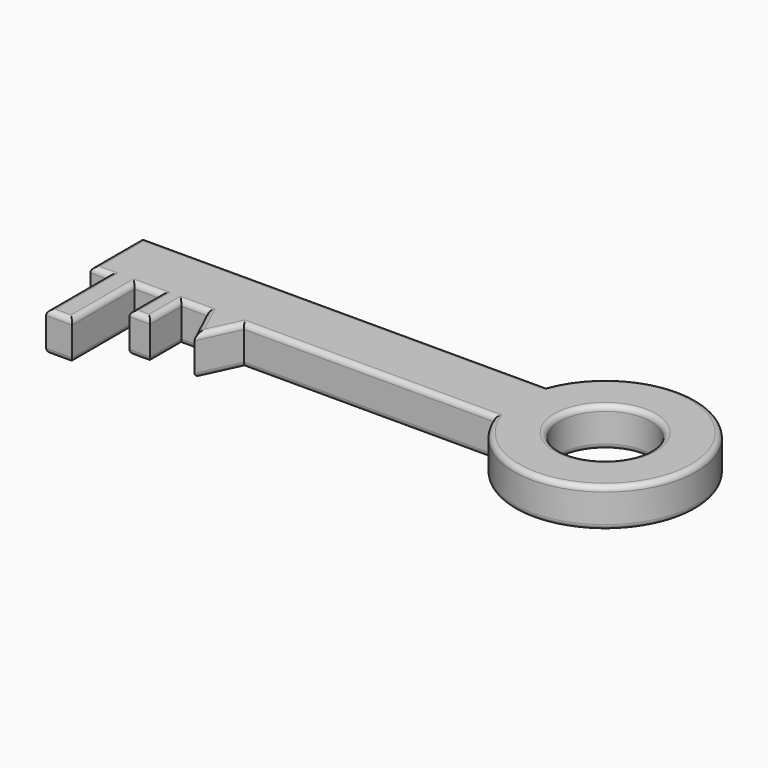
from build123d import *

# Parameters (mm, degrees)
F0_R     = 17.5
F1_DEPTH = 15
F2_R     = 2
F3_R     = 2


with BuildPart() as f1:
    # F0 (on Top) → F1 (new body)
    with BuildSketch(Plane.XY):
        with BuildLine():
            Line((-75.929283, 15), (20.102384, 15))
            ThreePointArc((20.102384, 15), (87.794126, 27.5), (20.102384, 40))
            Line((20.102384, 40), (-134.897616, 40))
            Line((-134.897616, 40), (-134.897616, 15))
            Line((-134.897616, 15), (-127.929283, 15))
            Line((-127.929283, 15), (-127.929283, -15))
            Line((-127.929283, -15), (-117.929283, -15))
            Line((-117.929283, -15), (-117.929283, 15))
            Line((-117.929283, 15), (-107.929283, 15))
            Line((-107.929283, 15), (-107.929283, 0))
            Line((-107.929283, 0), (-99.929283, 0))
            Line((-99.929283, 0), (-99.929283, 15))
            Line((-99.929283, 15), (-89.929283, 15))
            Line((-89.929283, 15), (-82.929283, 0))
            Line((-82.929283, 0), (-75.929283, 15))
        make_face()
        with Locations((52.794126, 27.5)):
            Circle(F0_R, mode=Mode.SUBTRACT)
    extrude(amount=F1_DEPTH)

    # F2
    f2_edges = [f1.edges().sort_by_distance(p)[0] for p in [
        (-27.913449, 15, 15),
        (87.794126, 27.5, 15),
        (-57.397616, 40, 15),
        (-134.897616, 27.5, 15),
        (-131.413449, 15, 15),
        (-127.929283, 0, 15),
        (-122.929283, -15, 15),
        (-117.929283, 0, 15),
        (-112.929283, 15, 15),
        (-107.929283, 7.5, 15),
        (-103.929283, 0, 15),
        (-99.929283, 7.5, 15),
        (-94.929283, 15, 15),
        (-86.429283, 7.5, 15),
        (-79.429283, 7.5, 15),
        (35.294126, 27.5, 15),
    ]]
    fillet(f2_edges, radius=F2_R)

    # F3
    f3_edges = [f1.edges().sort_by_distance(p)[0] for p in [
        (-27.913449, 15, 0),
        (87.794126, 27.5, 0),
        (-57.397616, 40, 0),
        (-134.897616, 27.5, 0),
        (-131.413449, 15, 0),
        (-127.929283, 0, 0),
        (-122.929283, -15, 0),
        (-117.929283, 0, 0),
        (-112.929283, 15, 0),
        (-107.929283, 7.5, 0),
        (-103.929283, 0, 0),
        (-99.929283, 7.5, 0),
        (-94.929283, 15, 0),
        (-86.429283, 7.5, 0),
        (-79.429283, 7.5, 0),
        (35.294126, 27.5, 0),
    ]]
    fillet(f3_edges, radius=F3_R)


solid = f1.part
